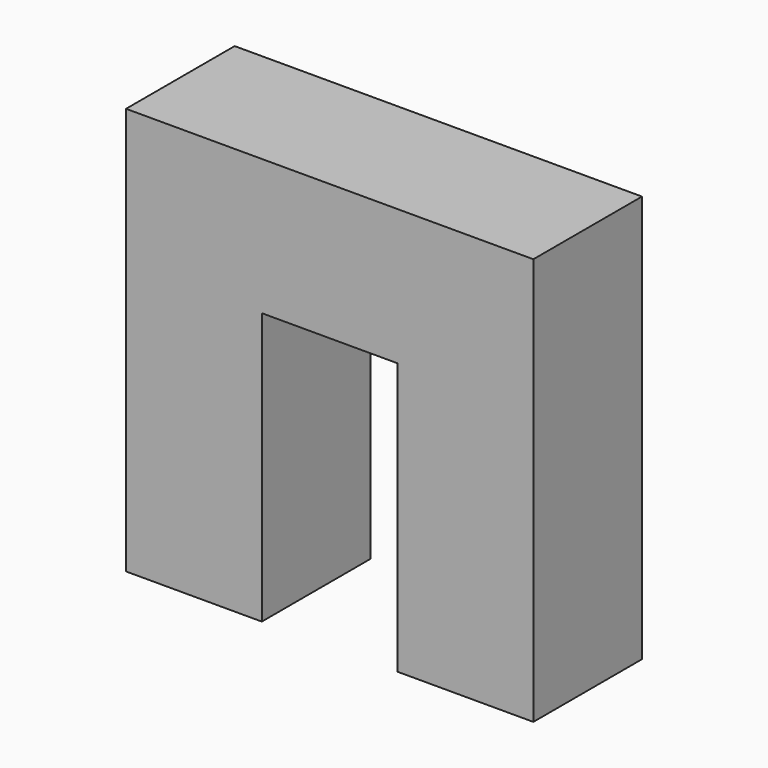
from build123d import *

# Parameters (mm, degrees)
F0_W     = 12.7
F0_H     = 12.7
F1_DEPTH = 6.35


with BuildPart() as f1:
    # F0 (on Front) → F1 (new body, symmetric)
    with BuildSketch(Plane.XZ):
        with Locations((-12.7, 10.885714)):
            Rectangle(F0_W, F0_H)
        with Locations((0, 10.885714)):
            Rectangle(F0_W, F0_H)
        with Locations((-12.7, -1.814286)):
            Rectangle(F0_W, F0_H)
        with Locations((12.7, 10.885714)):
            Rectangle(F0_W, F0_H)
        with Locations((-12.7, -14.514286)):
            Rectangle(F0_W, F0_H)
        with Locations((12.7, -1.814286)):
            Rectangle(F0_W, F0_H)
        with Locations((12.7, -14.514286)):
            Rectangle(F0_W, F0_H)
    extrude(amount=F1_DEPTH, both=True)


solid = f1.part
